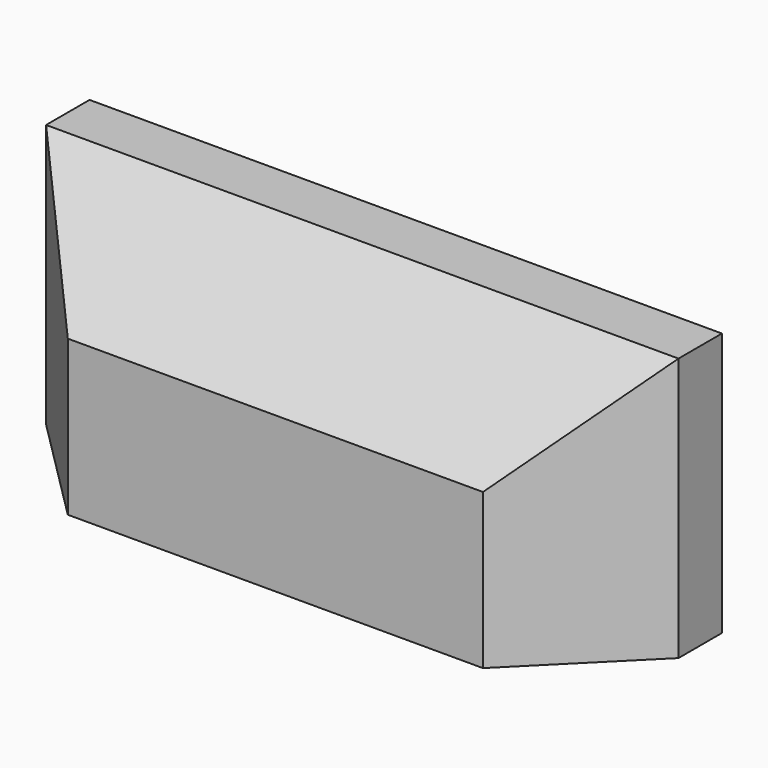
from build123d import *

# Parameters (mm, degrees)
F0_W     = 116.443158
F0_H     = 48.552304
F1_DEPTH = 30
F2_SIZE  = 20
F3_SIZE  = 20


with BuildPart() as f1:
    # F0 (on Front) → F1 (new body)
    with BuildSketch(Plane.XZ):
        Rectangle(F0_W, F0_H)
    extrude(amount=F1_DEPTH)

    # F2
    f2_edges = [f1.edges().sort_by_distance(p)[0] for p in [
        (0, -30, 24.276152),
    ]]
    chamfer(f2_edges, length=F2_SIZE)

    # F3
    f3_edges = [f1.edges().sort_by_distance(p)[0] for p in [
        (-58.221579, -30, -10),
        (58.221579, -30, -10),
    ]]
    chamfer(f3_edges, length=F3_SIZE)


solid = f1.part
